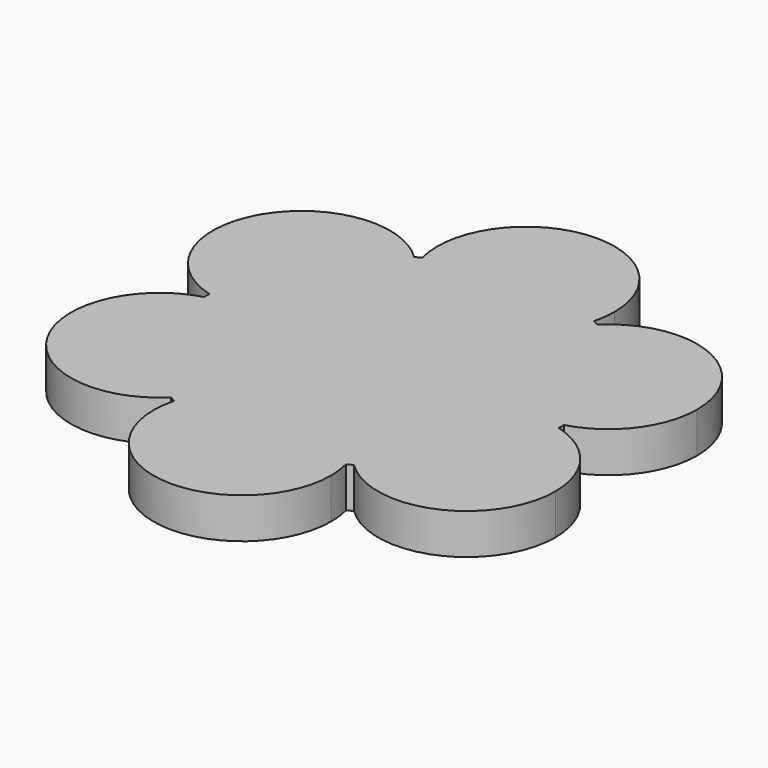
from build123d import *

# Parameters (mm, degrees)
F1_DEPTH = 6.35


with BuildPart() as f1:
    # F0 (on Top) → F1 (new body)
    with BuildSketch(Plane.XY):
        with BuildLine():
            ThreePointArc((-24.0592682489, 0), (-14.2371131165, 4.0684698676), (-10.1686432489, 13.890625))
            ThreePointArc((-10.1686432489, 13.890625), (-10.6419546741, 17.4857827611), (-12.0296335682, 20.8359365366))
            ThreePointArc((-12.0296335682, 20.8359365366), (-13.0777646274, 22.3968604248), (-14.3270898061, 23.8019400312))
            ThreePointArc((-14.3270898061, 23.8019400312), (-24.0592682489, 13.890625), (-27.7766296295, 0.5066537188))
            ThreePointArc((-27.7766296295, 0.5066537188), (-25.9351329578, 0.1272462548), (-24.0592682489, 0))
        make_face()
        with BuildLine():
            ThreePointArc((-14.3270898061, 23.8019400312), (-13.0777646274, 22.3968604248), (-12.0296335682, 20.8359365366))
            ThreePointArc((-12.0296335682, 20.8359365366), (-12.8573677792, 22.5241066045), (-13.4495398234, 24.30859375))
            ThreePointArc((-13.4495398234, 24.30859375), (-13.890625, 24.0592682489), (-14.3270898061, 23.8019400312))
        make_face()
        with BuildLine():
            ThreePointArc((-13.4495398234, 24.30859375), (-12.8573677792, 22.5241066045), (-12.0296335682, 20.8359365366))
            ThreePointArc((-12.0296335682, 20.8359365366), (1.0177e-06, 13.890625), (12.0296345859, 20.8359382993))
            ThreePointArc((12.0296345859, 20.8359382993), (12.8573681644, 22.5241075465), (13.4495398234, 24.30859375))
            ThreePointArc((13.4495398234, 24.30859375), (0, 27.78125), (-13.4495398234, 24.30859375))
        make_face()
        with BuildLine():
            ThreePointArc((-27.7766296295, -0.5066537188), (-25.9351329578, -0.1272462548), (-24.0592682489, 0))
            ThreePointArc((-24.0592682489, 0), (-25.9351329578, 0.1272462548), (-27.7766296295, 0.5066537188))
            ThreePointArc((-27.7766296295, 0.5066537188), (-27.78125, 0), (-27.7766296295, -0.5066537188))
        make_face()
        with BuildLine():
            ThreePointArc((-10.1686432489, -13.890625), (-14.2371131165, -4.0684698676), (-24.0592682489, 0))
            ThreePointArc((-24.0592682489, 0), (-25.9351329578, -0.1272462548), (-27.7766296295, -0.5066537188))
            ThreePointArc((-27.7766296295, -0.5066537188), (-24.0592682489, -13.890625), (-14.3270898061, -23.8019400312))
            ThreePointArc((-14.3270898061, -23.8019400312), (-13.0777652945, -22.3968612859), (-12.0296346574, -20.8359384232))
            ThreePointArc((-12.0296346574, -20.8359384232), (-10.641954956, -17.4857838132), (-10.1686432489, -13.890625))
        make_face()
        with BuildLine():
            ThreePointArc((-27.7766296295, 0.5066537188), (-24.0592682489, 13.890625), (-14.3270898061, 23.8019400312))
            ThreePointArc((-14.3270898061, 23.8019400312), (-36.0889023733, 20.8359375), (-27.7766296295, 0.5066537188))
        make_face()
        with BuildLine():
            ThreePointArc((13.890625, 27.78125), (-1.7502783753, 41.5611624997), (-13.4495398234, 24.30859375))
            ThreePointArc((-13.4495398234, 24.30859375), (0, 27.78125), (13.4495398234, 24.30859375))
            ThreePointArc((13.4495398234, 24.30859375), (13.7799124997, 26.0309716247), (13.890625, 27.78125))
        make_face()
        with BuildLine():
            ThreePointArc((13.4495398234, 24.30859375), (12.8573681644, 22.5241075465), (12.0296345859, 20.8359382993))
            ThreePointArc((12.0296345859, 20.8359382993), (13.0777652506, 22.3968612294), (14.3270898061, 23.8019400312))
            ThreePointArc((14.3270898061, 23.8019400312), (13.890625, 24.0592682489), (13.4495398234, 24.30859375))
        make_face()
        with BuildLine():
            ThreePointArc((14.3270898061, 23.8019400312), (13.0777652506, 22.3968612294), (12.0296345859, 20.8359382993))
            ThreePointArc((12.0296345859, 20.8359382993), (12.0296338937, 6.9453128996), (24.0592682489, 0))
            ThreePointArc((24.0592682489, 0), (25.9351329578, 0.1272462548), (27.7766296295, 0.5066537188))
            ThreePointArc((27.7766296295, 0.5066537188), (24.0592682489, 13.890625), (14.3270898061, 23.8019400312))
        make_face()
        with BuildLine():
            ThreePointArc((-14.3270898061, -23.8019400312), (-24.0592682489, -13.890625), (-27.7766296295, -0.5066537188))
            ThreePointArc((-27.7766296295, -0.5066537188), (-36.0889023733, -20.8359375), (-14.3270898061, -23.8019400312))
        make_face()
        with BuildLine():
            ThreePointArc((37.9498932489, 13.890625), (29.4334389621, 26.6995184743), (14.3270898061, 23.8019400312))
            ThreePointArc((14.3270898061, 23.8019400312), (24.0592682489, 13.890625), (27.7766296295, 0.5066537188))
            ThreePointArc((27.7766296295, 0.5066537188), (35.1178833479, 5.4848832135), (37.9498932489, 13.890625))
        make_face()
        with BuildLine():
            ThreePointArc((27.7766296295, 0.5066537188), (25.9351329578, 0.1272462548), (24.0592682489, 0))
            ThreePointArc((24.0592682489, 0), (25.9351329578, -0.1272462548), (27.7766296295, -0.5066537188))
            ThreePointArc((27.7766296295, -0.5066537188), (27.7800948833, -0.2533373929), (27.78125, 0))
            ThreePointArc((27.78125, 0), (27.7800948833, 0.2533373929), (27.7766296295, 0.5066537188))
        make_face()
        with BuildLine():
            ThreePointArc((27.7766296295, -0.5066537188), (25.9351329578, -0.1272462548), (24.0592682489, 0))
            ThreePointArc((24.0592682489, 0), (12.0296338267, -6.9453130157), (12.0296347199, -20.8359385313))
            ThreePointArc((12.0296347199, -20.8359385313), (13.0777653327, -22.3968613353), (14.3270898061, -23.8019400312))
            ThreePointArc((14.3270898061, -23.8019400312), (24.0592682489, -13.890625), (27.7766296295, -0.5066537188))
        make_face()
        with BuildLine():
            ThreePointArc((12.0296347199, -20.8359385313), (6.25e-08, -13.890625), (-12.0296346574, -20.8359384232))
            ThreePointArc((-12.0296346574, -20.8359384232), (-12.8573681914, -22.5241076127), (-13.4495398234, -24.30859375))
            ThreePointArc((-13.4495398234, -24.30859375), (0, -27.78125), (13.4495398234, -24.30859375))
            ThreePointArc((13.4495398234, -24.30859375), (12.8573682151, -22.5241076705), (12.0296347199, -20.8359385313))
        make_face()
        with BuildLine():
            ThreePointArc((-13.4495398234, -24.30859375), (-12.8573681914, -22.5241076127), (-12.0296346574, -20.8359384232))
            ThreePointArc((-12.0296346574, -20.8359384232), (-13.0777652945, -22.3968612859), (-14.3270898061, -23.8019400312))
            ThreePointArc((-14.3270898061, -23.8019400312), (-13.890625, -24.0592682489), (-13.4495398234, -24.30859375))
        make_face()
        with BuildLine():
            ThreePointArc((37.9498932489, -13.890625), (35.1178833479, -5.4848832135), (27.7766296295, -0.5066537188))
            ThreePointArc((27.7766296295, -0.5066537188), (24.0592682489, -13.890625), (14.3270898061, -23.8019400312))
            ThreePointArc((14.3270898061, -23.8019400312), (29.4334389621, -26.6995184743), (37.9498932489, -13.890625))
        make_face()
        with BuildLine():
            ThreePointArc((14.3270898061, -23.8019400312), (13.0777653327, -22.3968613353), (12.0296347199, -20.8359385313))
            ThreePointArc((12.0296347199, -20.8359385313), (12.8573682151, -22.5241076705), (13.4495398234, -24.30859375))
            ThreePointArc((13.4495398234, -24.30859375), (13.890625, -24.0592682489), (14.3270898061, -23.8019400312))
        make_face()
        with BuildLine():
            ThreePointArc((13.4495398234, -24.30859375), (0, -27.78125), (-13.4495398234, -24.30859375))
            ThreePointArc((-13.4495398234, -24.30859375), (-1.7502783753, -41.5611624997), (13.890625, -27.78125))
            ThreePointArc((13.890625, -27.78125), (13.7799124997, -26.0309716247), (13.4495398234, -24.30859375))
        make_face()
        with BuildLine():
            ThreePointArc((-12.0296335682, 20.8359365366), (-10.6419546741, 17.4857827611), (-10.1686432489, 13.890625))
            ThreePointArc((-10.1686432489, 13.890625), (-14.2371131165, 4.0684698676), (-24.0592682489, 0))
            ThreePointArc((-24.0592682489, 0), (-14.2371131165, -4.0684698676), (-10.1686432489, -13.890625))
            ThreePointArc((-10.1686432489, -13.890625), (-10.641954956, -17.4857838132), (-12.0296346574, -20.8359384232))
            ThreePointArc((-12.0296346574, -20.8359384232), (6.25e-08, -13.890625), (12.0296347199, -20.8359385313))
            ThreePointArc((12.0296347199, -20.8359385313), (12.0296338267, -6.9453130157), (24.0592682489, 0))
            ThreePointArc((24.0592682489, 0), (12.0296338937, 6.9453128996), (12.0296345859, 20.8359382993))
            ThreePointArc((12.0296345859, 20.8359382993), (1.0177e-06, 13.890625), (-12.0296335682, 20.8359365366))
        make_face()
    extrude(amount=F1_DEPTH)


solid = f1.part
